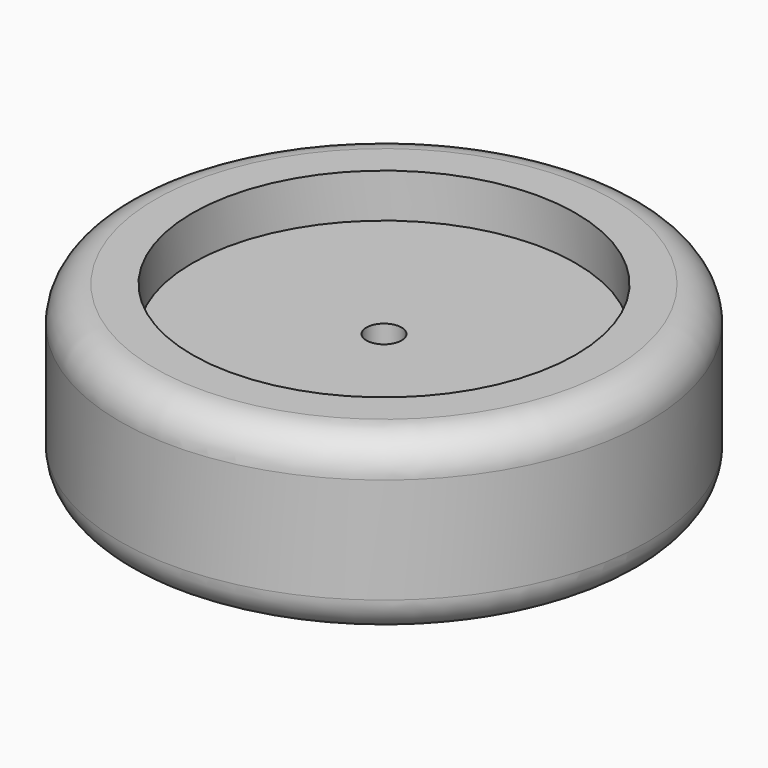
from build123d import *

# Parameters (mm, degrees)
F0_R     = 150
F1_DEPTH = 50
F2_R     = 20
F3_R     = 108.901018
F4_DEPTH = 25
F5_R     = 10
F6_DEPTH = 150


with BuildPart() as f1:
    # F0 (on Top) → F1 (new body, symmetric)
    with BuildSketch(Plane.XY):
        Circle(F0_R)
    extrude(amount=F1_DEPTH, both=True)

    # F2
    f2_edges = [f1.edges().sort_by_distance(p)[0] for p in [
        (-150, 0, 50),
        (-150, 0, -50),
    ]]
    fillet(f2_edges, radius=F2_R)

    # F3 (on face) → F4 (cut)
    with BuildSketch(Plane.XY.offset(50)):
        Circle(F3_R)
    extrude(amount=-F4_DEPTH, mode=Mode.SUBTRACT)

    # F5 (on face) → F6 (cut)
    with BuildSketch(Plane.XY.offset(25)):
        Circle(F5_R)
    extrude(amount=-F6_DEPTH, mode=Mode.SUBTRACT)


solid = f1.part
